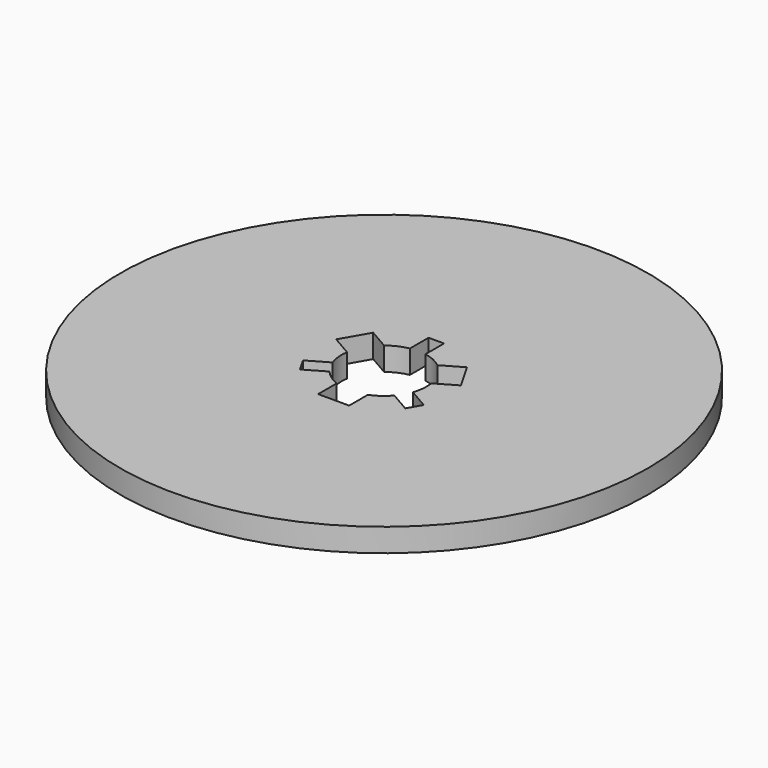
from build123d import *

# Parameters (mm, degrees)
SKETCH_R  = 34
PAD_DEPTH = 3


with BuildPart() as part:
    # Sketch → Pad (new body)
    with BuildSketch(Plane.XY):
        Circle(SKETCH_R)
        with BuildLine():
            ThreePointArc((3.43706, 4.293788), (2.287449, 5.001757), (1, 5.408327))
            Line((1, 8.408327), (1, 5.408327))
            Line((-1, 8.408327), (1, 8.408327))
            Line((-1, 5.408327), (-1, 8.408327))
            ThreePointArc((-1, 5.408327), (-2.287449, 5.001757), (-3.43706, 4.293788))
            Line((-6.035136, 5.793788), (-3.43706, 4.293788))
            Line((-8.035136, 2.329687), (-6.035136, 5.793788))
            Line((-5.43706, 0.829687), (-8.035136, 2.329687))
            ThreePointArc((-5.43706, 0.829687), (-5.475373, -0.51989), (-5.183748, -1.838138))
            Line((-7.781825, -3.338138), (-5.183748, -1.838138))
            Line((-6.781825, -5.070189), (-7.781825, -3.338138))
            Line((-4.183748, -3.570189), (-6.781825, -5.070189))
            ThreePointArc((-4.183748, -3.570189), (-3.187924, -4.481868), (-2, -5.123475))
            Line((-2, -8.123475), (-2, -5.123475))
            Line((2, -8.123475), (-2, -8.123475))
            Line((2, -5.123475), (2, -8.123475))
            ThreePointArc((2, -5.123475), (3.187924, -4.481868), (4.183748, -3.570189))
            Line((6.781825, -5.070189), (4.183748, -3.570189))
            Line((7.781825, -3.338138), (6.781825, -5.070189))
            Line((5.183748, -1.838138), (7.781825, -3.338138))
            ThreePointArc((5.183748, -1.838138), (5.475373, -0.51989), (5.43706, 0.829687))
            Line((8.035136, 2.329687), (5.43706, 0.829687))
            Line((6.035136, 5.793788), (8.035136, 2.329687))
            Line((3.43706, 4.293788), (6.035136, 5.793788))
        make_face(mode=Mode.SUBTRACT)
    extrude(amount=PAD_DEPTH)


solid = part.part
